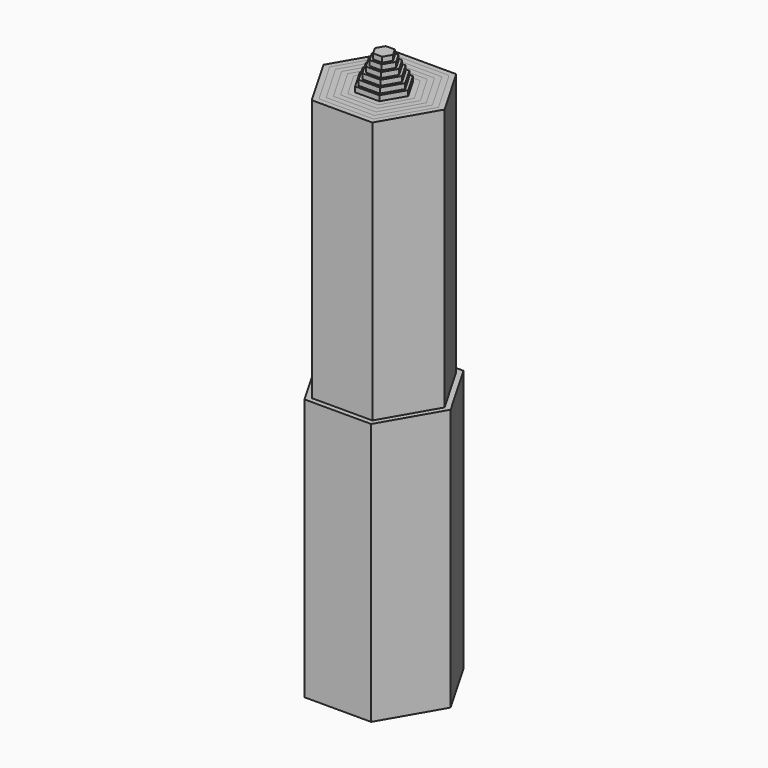
from build123d import *

# Parameters (mm, degrees)
F1_DEPTH       = 25
F2_DEPTH       = 28
F2_DEPTH_BACK  = 22
F3_DEPTH       = 27.5
F3_DEPTH_BACK  = 10
F4_DEPTH       = 27
F4_DEPTH_BACK  = 10
F5_DEPTH       = 26.5
F5_DEPTH_BACK  = 10
F6_DEPTH       = 26
F6_DEPTH_BACK  = 10
F7_DEPTH       = 25.5
F7_DEPTH_BACK  = 10
F8_DEPTH       = 25
F8_DEPTH_BACK  = 10
F9_DEPTH       = 25
F9_DEPTH_BACK  = 10
F10_DEPTH      = 25
F10_DEPTH_BACK = 10
F11_DEPTH      = 25
F11_DEPTH_BACK = 10
F12_DEPTH      = 25
F12_DEPTH_BACK = 10
F13_DEPTH      = 25
F13_DEPTH_BACK = 10


with BuildPart() as f1:
    # F0 (on Top) → F1 (new body)
    with BuildSketch(Plane.XY):
        Polygon((3.1754264805, -5.5), (6.3508529611, 0), (3.1754264805, 5.5), (-3.1754264805, 5.5), (-6.3508529611, 0), (-3.1754264805, -5.5), align=None)
        Polygon((2.8867513459, 5), (5.7735026919, 0), (2.8867513459, -5), (-2.8867513459, -5), (-5.7735026919, 0), (-2.8867513459, 5), align=None, mode=Mode.SUBTRACT)
    extrude(amount=-F1_DEPTH)


with BuildPart() as f2:
    # F0 (on Top) → F2 (new body, two sides)
    with BuildSketch(Plane.XY) as f2_sk:
        Polygon((0.4330127019, -0.75), (0.8660254038, 0), (0.4330127019, 0.75), (-0.4330127019, 0.75), (-0.8660254038, 0), (-0.4330127019, -0.75), align=None)
    extrude(amount=F2_DEPTH)
    extrude(f2_sk.sketch, amount=-F2_DEPTH_BACK)


with BuildPart() as f3:
    # F0 (on Top) → F3 (new body, two sides)
    with BuildSketch(Plane.XY) as f3_sk:
        Polygon((0.5773502692, -1), (1.1547005384, 0), (0.5773502692, 1), (-0.5773502692, 1), (-1.1547005384, 0), (-0.5773502692, -1), align=None)
        Polygon((0.4330127019, 0.75), (0.8660254038, 0), (0.4330127019, -0.75), (-0.4330127019, -0.75), (-0.8660254038, 0), (-0.4330127019, 0.75), align=None, mode=Mode.SUBTRACT)
    extrude(amount=F3_DEPTH)
    extrude(f3_sk.sketch, amount=-F3_DEPTH_BACK)


with BuildPart() as f4:
    # F0 (on Top) → F4 (new body, two sides)
    with BuildSketch(Plane.XY) as f4_sk:
        Polygon((0.7216878365, -1.25), (1.443375673, 0), (0.7216878365, 1.25), (-0.7216878365, 1.25), (-1.443375673, 0), (-0.7216878365, -1.25), align=None)
        Polygon((0.5773502692, 1), (1.1547005384, 0), (0.5773502692, -1), (-0.5773502692, -1), (-1.1547005384, 0), (-0.5773502692, 1), align=None, mode=Mode.SUBTRACT)
    extrude(amount=F4_DEPTH)
    extrude(f4_sk.sketch, amount=-F4_DEPTH_BACK)


with BuildPart() as f5:
    # F0 (on Top) → F5 (new body, two sides)
    with BuildSketch(Plane.XY) as f5_sk:
        Polygon((0.8660254038, -1.5), (1.7320508076, 0), (0.8660254038, 1.5), (-0.8660254038, 1.5), (-1.7320508076, 0), (-0.8660254038, -1.5), align=None)
        Polygon((0.7216878365, 1.25), (1.443375673, 0), (0.7216878365, -1.25), (-0.7216878365, -1.25), (-1.443375673, 0), (-0.7216878365, 1.25), align=None, mode=Mode.SUBTRACT)
    extrude(amount=F5_DEPTH)
    extrude(f5_sk.sketch, amount=-F5_DEPTH_BACK)


with BuildPart() as f6:
    # F0 (on Top) → F6 (new body, two sides)
    with BuildSketch(Plane.XY) as f6_sk:
        Polygon((1.0103629711, -1.75), (2.0207259422, 0), (1.0103629711, 1.75), (-1.0103629711, 1.75), (-2.0207259422, 0), (-1.0103629711, -1.75), align=None)
        Polygon((0.8660254038, 1.5), (1.7320508076, 0), (0.8660254038, -1.5), (-0.8660254038, -1.5), (-1.7320508076, 0), (-0.8660254038, 1.5), align=None, mode=Mode.SUBTRACT)
    extrude(amount=F6_DEPTH)
    extrude(f6_sk.sketch, amount=-F6_DEPTH_BACK)


with BuildPart() as f7:
    # F0 (on Top) → F7 (new body, two sides)
    with BuildSketch(Plane.XY) as f7_sk:
        Polygon((1.1547005384, -2), (2.3094010768, 0), (1.1547005384, 2), (-1.1547005384, 2), (-2.3094010768, 0), (-1.1547005384, -2), align=None)
        Polygon((1.0103629711, 1.75), (2.0207259422, 0), (1.0103629711, -1.75), (-1.0103629711, -1.75), (-2.0207259422, 0), (-1.0103629711, 1.75), align=None, mode=Mode.SUBTRACT)
    extrude(amount=F7_DEPTH)
    extrude(f7_sk.sketch, amount=-F7_DEPTH_BACK)


with BuildPart() as f8:
    # F0 (on Top) → F8 (new body, two sides)
    with BuildSketch(Plane.XY) as f8_sk:
        Polygon((1.443375673, -2.5), (2.8867513459, 0), (1.443375673, 2.5), (-1.443375673, 2.5), (-2.8867513459, 0), (-1.443375673, -2.5), align=None)
        Polygon((1.1547005384, 2), (2.3094010768, 0), (1.1547005384, -2), (-1.1547005384, -2), (-2.3094010768, 0), (-1.1547005384, 2), align=None, mode=Mode.SUBTRACT)
    extrude(amount=F8_DEPTH)
    extrude(f8_sk.sketch, amount=-F8_DEPTH_BACK)


with BuildPart() as f9:
    # F0 (on Top) → F9 (new body, two sides)
    with BuildSketch(Plane.XY) as f9_sk:
        Polygon((1.7320508076, -3), (3.4641016151, 0), (1.7320508076, 3), (-1.7320508076, 3), (-3.4641016151, 0), (-1.7320508076, -3), align=None)
        Polygon((1.443375673, 2.5), (2.8867513459, 0), (1.443375673, -2.5), (-1.443375673, -2.5), (-2.8867513459, 0), (-1.443375673, 2.5), align=None, mode=Mode.SUBTRACT)
    extrude(amount=F9_DEPTH)
    extrude(f9_sk.sketch, amount=-F9_DEPTH_BACK)


with BuildPart() as f10:
    # F0 (on Top) → F10 (new body, two sides)
    with BuildSketch(Plane.XY) as f10_sk:
        Polygon((2.0207259422, -3.5), (4.0414518843, 0), (2.0207259422, 3.5), (-2.0207259422, 3.5), (-4.0414518843, 0), (-2.0207259422, -3.5), align=None)
        Polygon((1.7320508076, 3), (3.4641016151, 0), (1.7320508076, -3), (-1.7320508076, -3), (-3.4641016151, 0), (-1.7320508076, 3), align=None, mode=Mode.SUBTRACT)
    extrude(amount=F10_DEPTH)
    extrude(f10_sk.sketch, amount=-F10_DEPTH_BACK)


with BuildPart() as f11:
    # F0 (on Top) → F11 (new body, two sides)
    with BuildSketch(Plane.XY) as f11_sk:
        Polygon((2.3094010768, -4), (4.6188021535, 0), (2.3094010768, 4), (-2.3094010768, 4), (-4.6188021535, 0), (-2.3094010768, -4), align=None)
        Polygon((2.0207259422, 3.5), (4.0414518843, 0), (2.0207259422, -3.5), (-2.0207259422, -3.5), (-4.0414518843, 0), (-2.0207259422, 3.5), align=None, mode=Mode.SUBTRACT)
    extrude(amount=F11_DEPTH)
    extrude(f11_sk.sketch, amount=-F11_DEPTH_BACK)


with BuildPart() as f12:
    # F0 (on Top) → F12 (new body, two sides)
    with BuildSketch(Plane.XY) as f12_sk:
        Polygon((2.5980762114, -4.5), (5.1961524227, 0), (2.5980762114, 4.5), (-2.5980762114, 4.5), (-5.1961524227, 0), (-2.5980762114, -4.5), align=None)
        Polygon((2.3094010768, 4), (4.6188021535, 0), (2.3094010768, -4), (-2.3094010768, -4), (-4.6188021535, 0), (-2.3094010768, 4), align=None, mode=Mode.SUBTRACT)
    extrude(amount=F12_DEPTH)
    extrude(f12_sk.sketch, amount=-F12_DEPTH_BACK)


with BuildPart() as f13:
    # F0 (on Top) → F13 (new body, two sides)
    with BuildSketch(Plane.XY) as f13_sk:
        Polygon((2.8867513459, -5), (5.7735026919, 0), (2.8867513459, 5), (-2.8867513459, 5), (-5.7735026919, 0), (-2.8867513459, -5), align=None)
        Polygon((2.5980762114, 4.5), (5.1961524227, 0), (2.5980762114, -4.5), (-2.5980762114, -4.5), (-5.1961524227, 0), (-2.5980762114, 4.5), align=None, mode=Mode.SUBTRACT)
    extrude(amount=F13_DEPTH)
    extrude(f13_sk.sketch, amount=-F13_DEPTH_BACK)


solid = Compound([f1.part, f2.part, f3.part, f4.part, f5.part, f6.part, f7.part, f8.part, f9.part, f10.part, f11.part, f12.part, f13.part])
